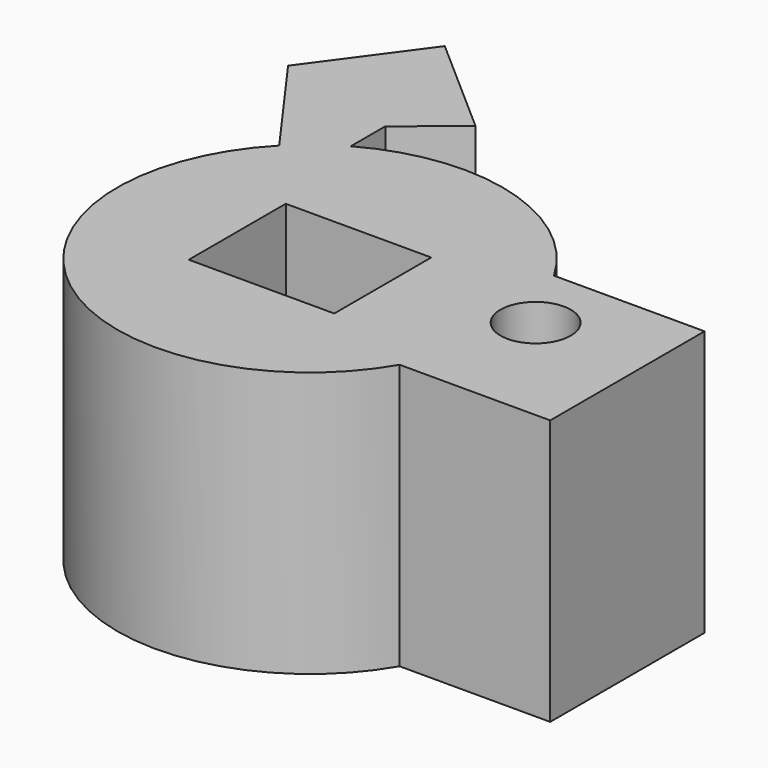
from build123d import *

# Parameters (mm, degrees)
F1_DEPTH = 50.8
F2_W     = 27.847112
F2_H     = 23.205928
F3_DEPTH = 118.98803
F4_R     = 6.728536
F5_DEPTH = 25.4


with BuildPart() as f1:
    # F0 (on Top) → F1 (new body)
    with BuildSketch(Plane.XY):
        with BuildLine():
            Line((-41.568879, 46.714541), (-26.450199, 25.692446))
            ThreePointArc((-26.450199, 25.692446), (-22.246811, -29.407385), (31.918666, -18.463846))
            Line((31.918666, -18.463846), (60.738988, -18.463846))
            Line((60.738988, -18.463846), (60.738988, 18.463846))
            Line((60.738988, 18.463846), (31.918666, 18.463846))
            ThreePointArc((31.918666, 18.463846), (9.793967, 35.549867), (-17.959369, 32.205215))
            Line((-17.959369, 32.205215), (-17.959369, 40.459029))
            Line((-17.959369, 40.459029), (-7.466254, 48.93424))
            Line((-7.466254, 48.93424), (-27.24174, 66.288233))
            Line((-27.24174, 66.288233), (-41.568879, 46.714541))
        make_face()
    extrude(amount=F1_DEPTH)

    # F2 (on face) → F3 (cut)
    with BuildSketch(Plane.XY.offset(50.8)):
        Rectangle(F2_W, F2_H)
    extrude(amount=-F3_DEPTH, mode=Mode.SUBTRACT)

    # F4 (on face) → F5 (cut)
    with BuildSketch(Plane.XY.offset(50.8)):
        with Locations((39.279759, 4.874428)):
            Circle(F4_R)
    extrude(amount=-F5_DEPTH, mode=Mode.SUBTRACT)


solid = f1.part
